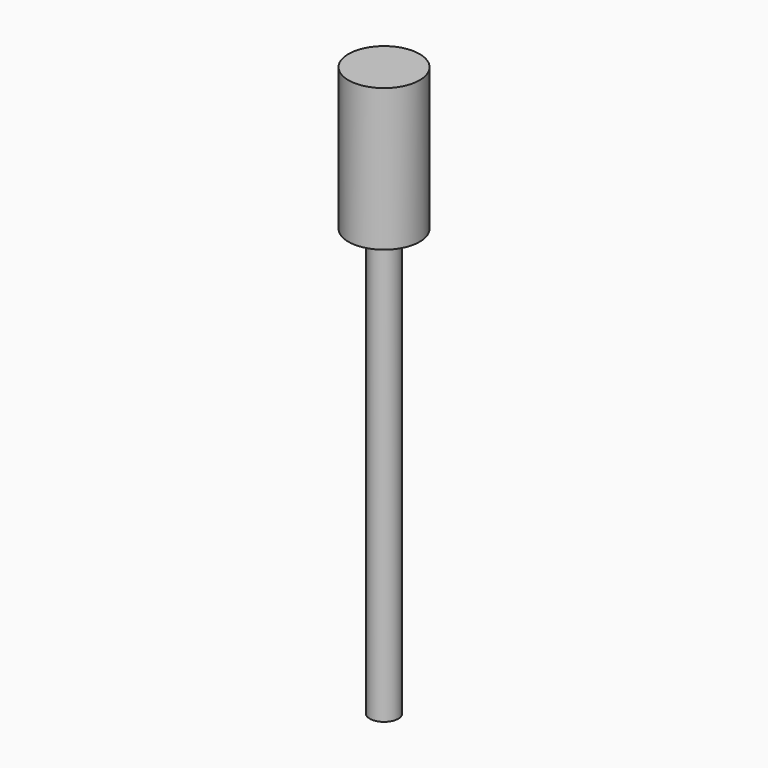
from build123d import *

# Parameters (mm, degrees)
F0_R          = 25
F1_DEPTH      = 100
F1_DEPTH_BACK = 300
F2_R          = 25
F2_R_2        = 10
F3_DEPTH      = 300


with BuildPart() as f1:
    # F0 (on Top) → F1 (new body, two sides)
    with BuildSketch(Plane.XY) as f1_sk:
        Circle(F0_R)
    extrude(amount=F1_DEPTH)
    extrude(f1_sk.sketch, amount=-F1_DEPTH_BACK)

    # F2 (on Top) → F3 (cut)
    with BuildSketch(Plane.XY):
        Circle(F2_R)
        Circle(F2_R_2, mode=Mode.SUBTRACT)
    extrude(amount=-F3_DEPTH, mode=Mode.SUBTRACT)


solid = f1.part
